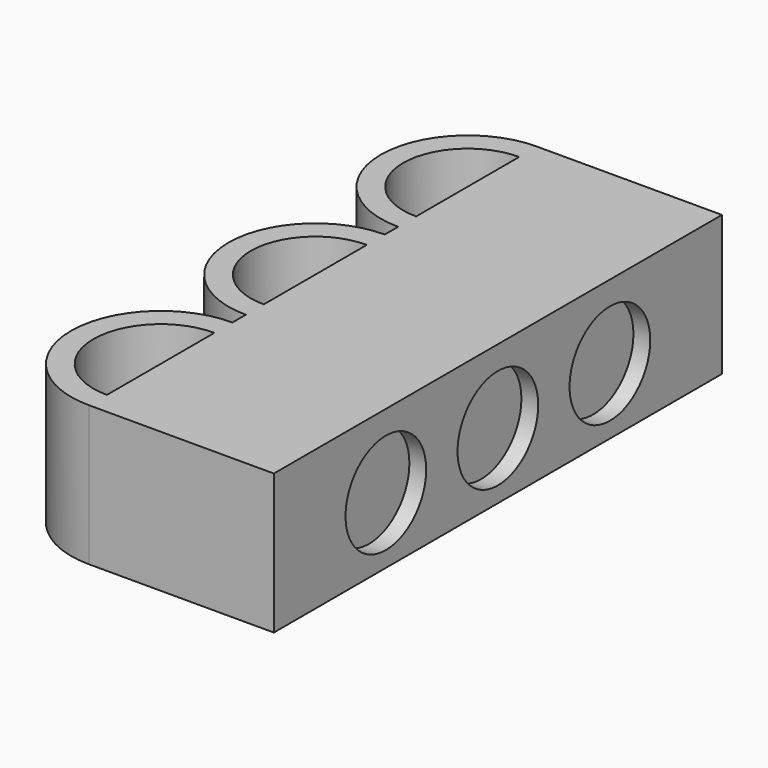
from build123d import *

# Parameters (mm, degrees)
F1_DEPTH = 6.35
F2_R     = 2.286
F3_DEPTH = 0.762


with BuildPart() as f1:
    # F0 (on Top) → F1 (new body)
    with BuildSketch(Plane.XY):
        Polygon((4.191, 25.4), (-4.191, 25.4), (-4.191, 24.384), (-4.191, 18.542), (-4.191, 17.526), (-4.191, 16.764), (-4.191, 15.748), (-4.191, 9.906), (-4.191, 8.89), (-4.191, 8.128), (-4.191, 7.112), (-4.191, 1.016), (-4.191, 0), (4.191, 0), align=None)
        with BuildLine():
            Line((-4.191, 15.748), (-4.191, 16.764))
            ThreePointArc((-4.191, 16.764), (-8.128, 12.827), (-4.191, 8.89))
            Line((-4.191, 8.89), (-4.191, 9.906))
            ThreePointArc((-4.191, 9.906), (-7.112, 12.827), (-4.191, 15.748))
        make_face()
        with BuildLine():
            ThreePointArc((-4.191, 8.128), (-8.255, 4.064), (-4.191, 0))
            Line((-4.191, 0), (-4.191, 1.016))
            ThreePointArc((-4.191, 1.016), (-7.239, 4.064), (-4.191, 7.112))
            Line((-4.191, 7.112), (-4.191, 8.128))
        make_face()
        with BuildLine():
            Line((-4.191, 24.384), (-4.191, 25.4))
            ThreePointArc((-4.191, 25.4), (-8.128, 21.463), (-4.191, 17.526))
            Line((-4.191, 17.526), (-4.191, 18.542))
            ThreePointArc((-4.191, 18.542), (-7.112, 21.463), (-4.191, 24.384))
        make_face()
    extrude(amount=F1_DEPTH)

    # F2 (on face) → F3 (cut)
    with BuildSketch(Plane.YZ.offset(4.191)):
        with Locations((6.35, 2.9972)):
            Circle(F2_R)
        with Locations((12.7, 2.9972)):
            Circle(F2_R)
        with Locations((19.05, 2.9972)):
            Circle(F2_R)
    extrude(amount=-F3_DEPTH, mode=Mode.SUBTRACT)


solid = f1.part
